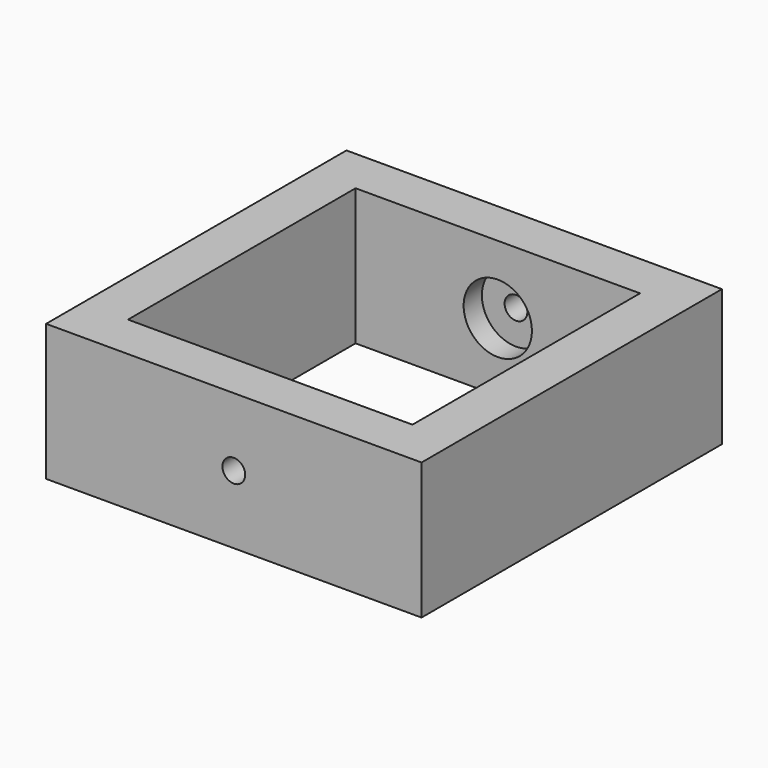
from build123d import *

# Parameters (mm, degrees)
F0_W     = 52.3875
F0_H     = 52.3875
F0_W_2   = 39.6875
F0_H_2   = 39.6875
F1_DEPTH = 19.05
F2_R     = 1.5875
F3_DEPTH = 25.4
F2_R_2   = 4.7625
F4_DEPTH = 3.175
F6_D     = 3.175


with BuildPart() as f1:
    # F0 (on Top) → F1 (new body)
    with BuildSketch(Plane.XY):
        with Locations((19.05, 19.05)):
            Rectangle(F0_W, F0_H)
        with Locations((19.05, 19.05)):
            Rectangle(F0_W_2, F0_H_2, mode=Mode.SUBTRACT)
    extrude(amount=F1_DEPTH)

    # F2 (on face) → F3 (cut)
    with BuildSketch(Plane.XZ.offset(-38.89375)):
        with Locations((19.05, 9.525)):
            Circle(F2_R)
    extrude(amount=-F3_DEPTH, mode=Mode.SUBTRACT)

    # F2 (on face) → F4 (cut)
    with BuildSketch(Plane.XZ.offset(-38.89375)):
        with Locations((19.05, 9.525)):
            Circle(F2_R_2)
        with Locations((19.05, 9.525)):
            Circle(F2_R, mode=Mode.SUBTRACT)
    extrude(amount=-F4_DEPTH, mode=Mode.SUBTRACT)

    # F6 (through all)
    with Locations(Plane.XZ.offset(7.14375)):
        with Locations((19.05, 9.525)):
            Hole(F6_D / 2)


solid = f1.part
